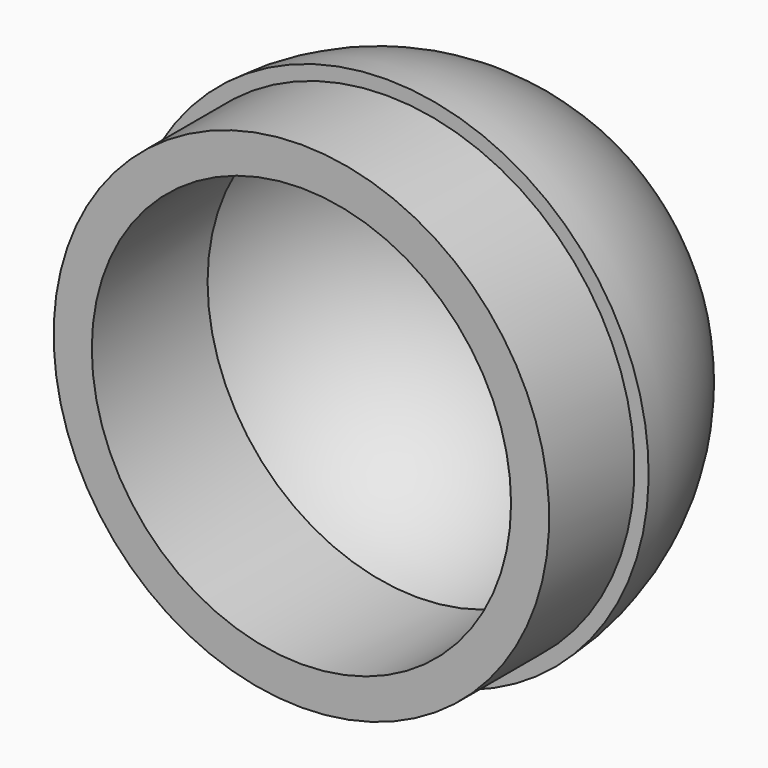
from build123d import *

# Parameters (mm, degrees)
F2_T = -2


with BuildPart() as f1:
    # F0 (on Right) → F1 (revolve)
    with BuildSketch(Plane.YZ):
        with BuildLine():
            Line((5.5872295052, 12.9911601543), (0, 12.9911601543))
            Line((0, 12.9911601543), (0, 0))
            Line((0, 0), (18.7855159319, 0))
            ThreePointArc((18.7855159319, 0), (14.9512416834, 9.5247982797), (5.5872295052, 13.7365339324))
            Line((5.5872295052, 13.7365339324), (5.5872295052, 12.9911601543))
        make_face()
    revolve(axis=Axis((0, 9.392757966, 0), (0, -1, 0)))

    # F2
    f2_openings = [f1.faces().sort_by_distance(p)[0] for p in [
        (0, 0, 0),
    ]]
    offset(amount=F2_T, openings=f2_openings, kind=Kind.INTERSECTION)


solid = f1.part
